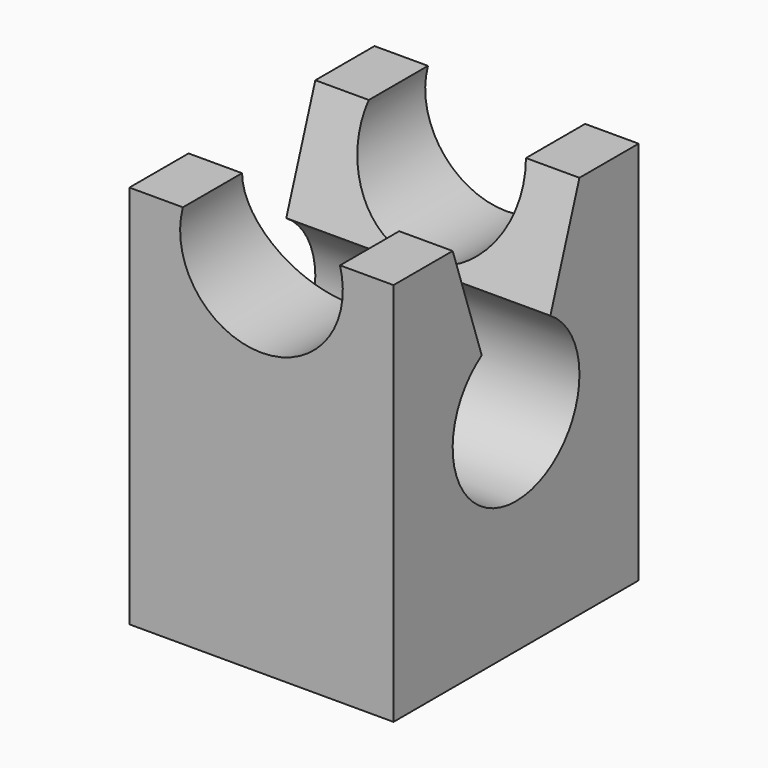
from build123d import *

# Parameters (mm, degrees)
F0_W     = 12.5
F0_H     = 14.5
F1_DEPTH = 18.2
F2_R     = 3.85
F3_DEPTH = 25
F5_DEPTH = 25


with BuildPart() as f1:
    # F0 (on Top) → F1 (new body)
    with BuildSketch(Plane.XY):
        with Locations((6.25, 7.25)):
            Rectangle(F0_W, F0_H)
    extrude(amount=F1_DEPTH)

    # F2 (on face) → F3 (cut)
    with BuildSketch(Plane.XZ):
        with Locations((6.25, 17.2)):
            Circle(F2_R)
    extrude(amount=-F3_DEPTH, mode=Mode.SUBTRACT)

    # F4 (on face) → F5 (cut)
    with BuildSketch(Plane(origin=(0, 0, 0), x_dir=(0, -1, 0), z_dir=(-1, 0, 0))):
        with BuildLine():
            Line((-11, 18.2), (-9.280318, 13.152826))
            ThreePointArc((-9.280318, 13.152826), (-7.25, 6.25), (-5.219682, 13.152826))
            Line((-5.219682, 13.152826), (-3.5, 18.2))
            Line((-3.5, 18.2), (-11, 18.2))
        make_face()
    extrude(amount=-F5_DEPTH, mode=Mode.SUBTRACT)


solid = f1.part
